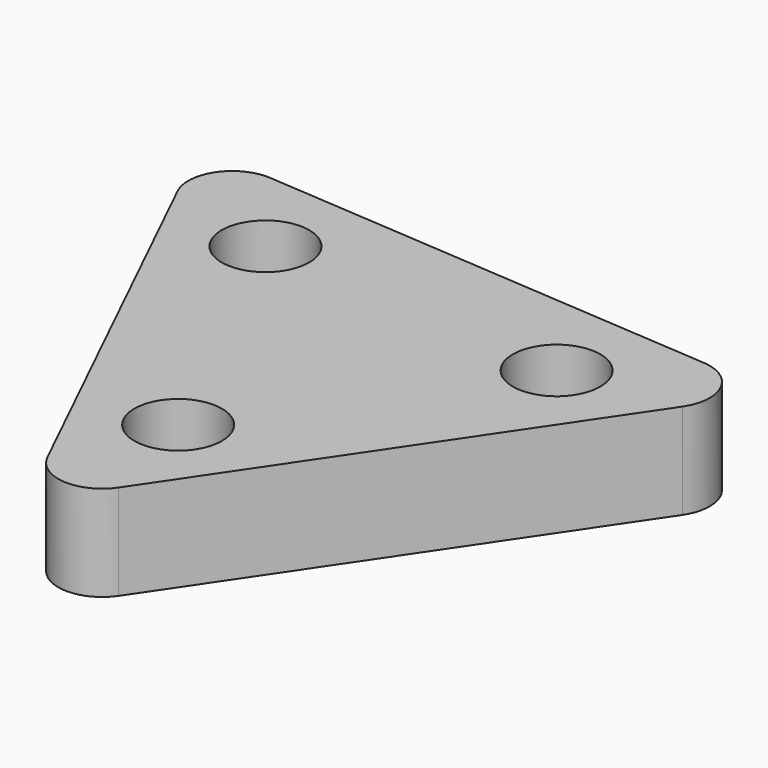
from build123d import *

# Parameters (mm, degrees)
F1_DEPTH = 10.9
F2_R     = 5
F3_R     = 5
F4_DEPTH = 25


with BuildPart() as f1:
    # F0 (on Top) → F1 (new body)
    with BuildSketch(Plane.XY):
        Polygon((-2.8653, -40.312819), (36.344576, 17.674987), (-33.479275, 22.637833), align=None)
    extrude(amount=F1_DEPTH)

    # F2
    f2_edges = [f1.edges().sort_by_distance(p)[0] for p in [
        (36.344576, 17.674987, 5.45),
        (-2.8653, -40.312819, 5.45),
        (-33.479275, 22.637833, 5.45),
    ]]
    fillet(f2_edges, radius=F2_R)

    # F3 (on face) → F4 (cut)
    with BuildSketch(Plane.XY.offset(10.9)):
        with Locations((-1.447344, -20.363147)):
            Circle(F3_R)
        with Locations((18.358675, 8.928137)):
            Circle(F3_R)
        with Locations((-16.911331, 11.435011)):
            Circle(F3_R)
    extrude(amount=-F4_DEPTH, mode=Mode.SUBTRACT)


solid = f1.part
